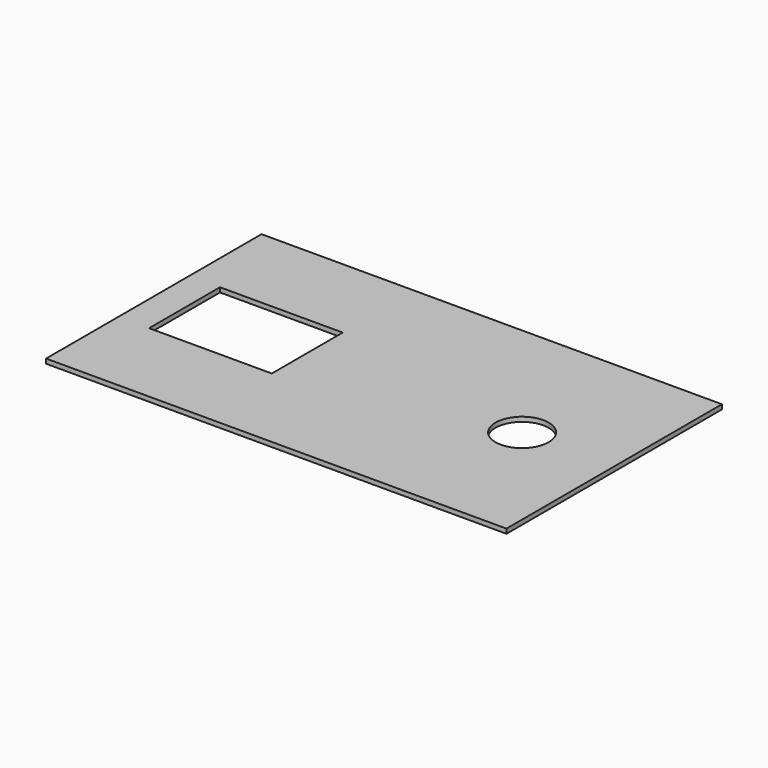
from build123d import *

# Parameters (mm, degrees)
F0_W     = 100
F0_H     = 58.5
F1_DEPTH = 1
F2_W     = 26.65
F2_H     = 19.25
F3_R     = 5.775
F4_DEPTH = 25


with BuildPart() as f1:
    # F0 (on Top) → F1 (new body)
    with BuildSketch(Plane.XY):
        Rectangle(F0_W, F0_H)
    extrude(amount=F1_DEPTH)

    # F2 (on face) + F3 (on face) → F4 (cut)
    with BuildSketch(Plane.XY.offset(1)):
        with Locations((-30, 0)):
            Rectangle(F2_W, F2_H)
    with BuildSketch(Plane.XY.offset(1)):
        with Locations((30, 0)):
            Circle(F3_R)
    extrude(amount=-F4_DEPTH, mode=Mode.SUBTRACT)


solid = f1.part
